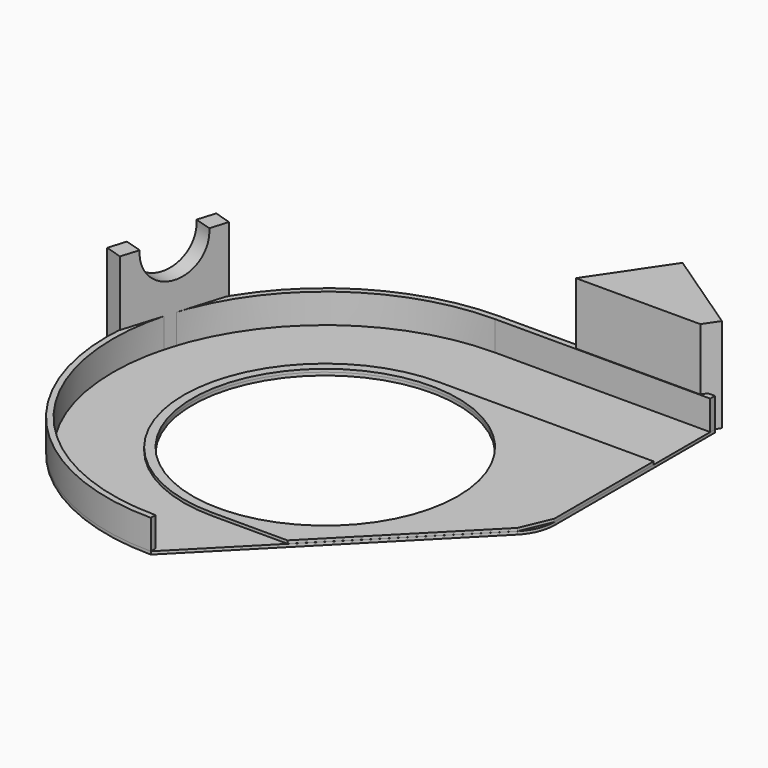
from build123d import *

# Parameters (mm, degrees)
PAD001_DEPTH      = 10
SKETCH024_R       = 45
PAD002_DEPTH      = 1
PAD004_DEPTH      = 32
PAD004_DEPTH_BACK = 1
SKETCH027_R       = 11.2
POCKET001_DEPTH   = 15.7868758108
SKETCH001_R       = 45
PAD_DEPTH         = 1
PAD005_DEPTH      = 31
PAD005_DEPTH_BACK = 1


with BuildPart() as connector:
    # Sketch002 → Pad001 (new body)
    with BuildSketch(Plane.XY):
        with BuildLine():
            Line((73, 74), (0, 74))
            ThreePointArc((0, 74), (-74.0000491177, 0), (0, -74))
            Line((0, -74), (0, -72))
            ThreePointArc((0, 72), (-72.0000003334, 0), (0, -72))
            Line((0, 72), (73, 72))
            Line((73, 74), (73, 72))
        make_face()
    extrude(amount=PAD001_DEPTH)


with BuildPart() as obj1:
    # Sketch024 → Pad002 (new body)
    with BuildSketch(Plane.XY):
        with BuildLine():
            ThreePointArc((0, 48), (-48, -7.06549e-05), (0.0001413098, -47.9999999999))
            Line((25.5602413098, -47.9999999999), (0.0001413097, -47.9999999999))
            Line((25.5602413098, -47.9999999999), (68.6667827194, -4.3555408869))
            Line((73, 5.8371), (68.6667827194, -4.3555408869))
            Line((73, 48), (73, 5.8371))
            Line((0, 48), (73, 48))
        make_face()
        Circle(SKETCH024_R, mode=Mode.SUBTRACT)
    extrude(amount=PAD002_DEPTH)


with BuildPart() as pocket001:
    # Sketch025 → Pad004 (new body, two sides)
    with BuildSketch(Plane.XY) as pad004_sk:
        Polygon((-69.1718947306, 40.2246535265), (-79.4049043959, 6.7539870678), (-73.6670758601, 4.9997568394), (-63.4340661948, 38.4704232981), align=None)
    extrude(amount=PAD004_DEPTH)
    extrude(pad004_sk.sketch, amount=-PAD004_DEPTH_BACK)

    # Sketch027 → Pocket001 (cut, through all)
    with BuildSketch(Plane(origin=(-74.5056676119, 22.7786685315, 0), x_dir=(-0.2923717047, -0.956304756, 0), z_dir=(-0.956304756, 0.2923717047, 0))):
        with Locations((-0.743122693, 31)):
            Circle(SKETCH027_R)
    extrude(amount=-POCKET001_DEPTH, mode=Mode.SUBTRACT)


with BuildPart() as pad005:
    # Sketch001 → Pad (new body)
    with BuildSketch(Plane.XY):
        with BuildLine():
            Line((73, 74), (0, 74))
            ThreePointArc((0, 74), (-73.9999932033, 0), (0, -74))
            Line((68.6985, -4.3608404621), (0, -74))
            ThreePointArc((68.6985, -4.3608404621), (71.8828289751, 0.4578619517), (73, 6.124587009))
            Line((73, 74), (73, 6.124587009))
        make_face()
        Circle(SKETCH001_R, mode=Mode.SUBTRACT)
    extrude(amount=-PAD_DEPTH)

    # Sketch → Pad005 (new body, two sides)
    with BuildSketch(Plane.XY) as pad005_sk:
        Polygon((27.252644507, 72.2162499408), (69.4702727046, 72.2162499408), (72.8254301255, 77.1904753762), (43.809115086, 96.7622269976), align=None)
    extrude(amount=PAD005_DEPTH)
    extrude(pad005_sk.sketch, amount=-PAD005_DEPTH_BACK)


solid = Compound([connector.part, obj1.part, pocket001.part, pad005.part])
